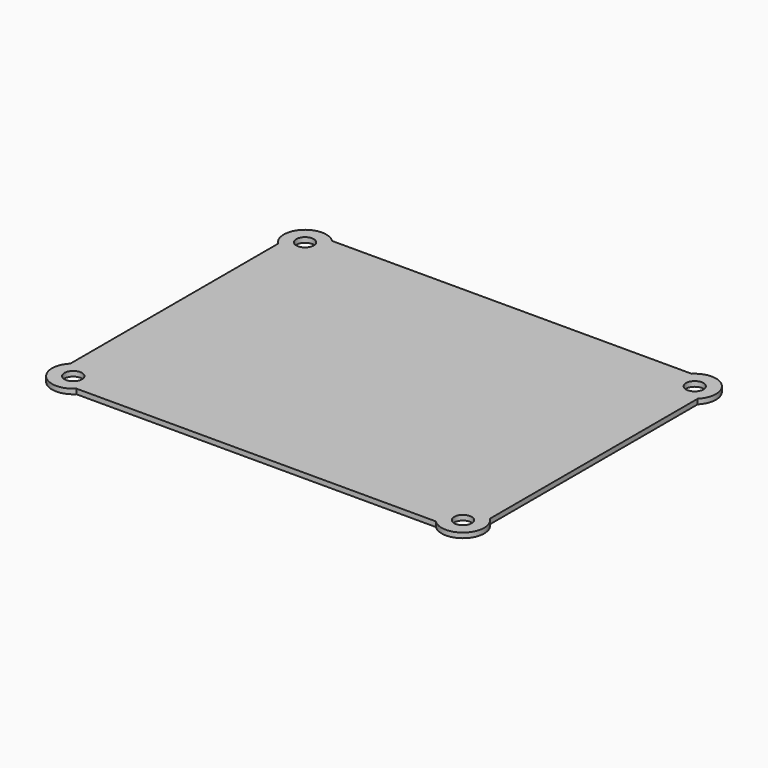
from build123d import *

# Parameters (mm, degrees)
F0_W     = 84
F0_H     = 64
F1_DEPTH = 1
F2_R     = 4.25
F3_DEPTH = 1
F4_R     = 1.75
F5_DEPTH = 40


with BuildPart() as f1:
    # F0 (on Top) → F1 (new body)
    with BuildSketch(Plane.XY):
        Rectangle(F0_W, F0_H)
    extrude(amount=F1_DEPTH)

    # F2 (on face) → F3 (join)
    with BuildSketch(Plane(origin=(0, 0, 0), x_dir=(1, 0, 0), z_dir=(0, 0, -1))):
        with Locations((-39, 29)):
            Circle(F2_R)
        with Locations((-39, -29)):
            Circle(F2_R)
        with Locations((39, -29)):
            Circle(F2_R)
        with Locations((39, 29)):
            Circle(F2_R)
    extrude(amount=-F3_DEPTH)

    # F4 (on face) → F5 (cut)
    with BuildSketch(Plane.XY.offset(1)):
        with Locations((-39, 29)):
            Circle(F4_R)
        with Locations((39, 29)):
            Circle(F4_R)
        with Locations((-39, -29)):
            Circle(F4_R)
        with Locations((39, -29)):
            Circle(F4_R)
    extrude(amount=-F5_DEPTH, mode=Mode.SUBTRACT)


solid = f1.part
